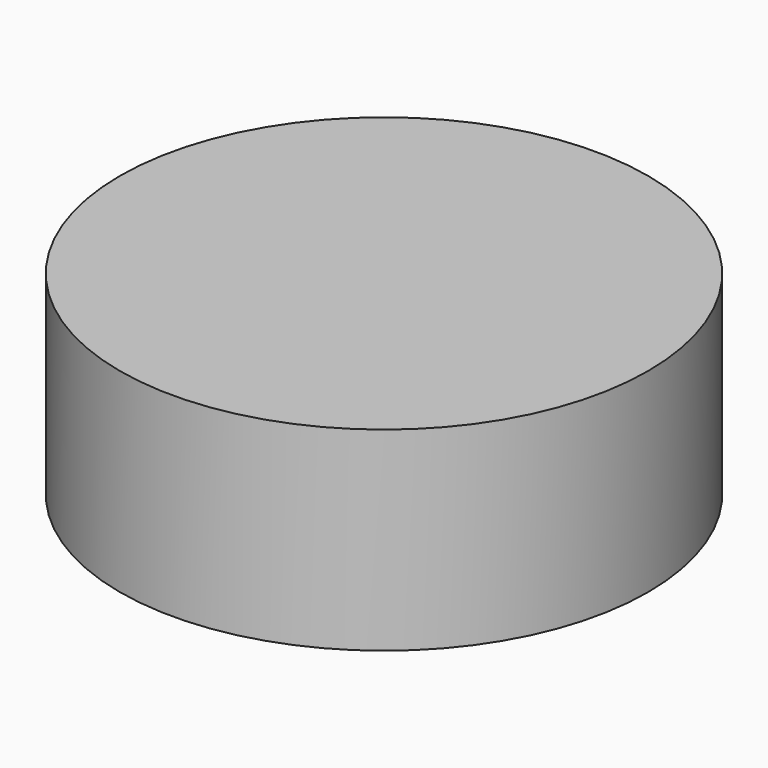
from build123d import *

# Parameters (mm, degrees)
F0_W = 113.771744
F0_H = 83.858132


with BuildPart() as f1:
    # F0 (on Front) → F1 (revolve)
    with BuildSketch(Plane.XZ):
        Rectangle(F0_W, F0_H)
    revolve(axis=Axis((56.885872, 0, 0), (0, 0, 1)))


solid = f1.part
